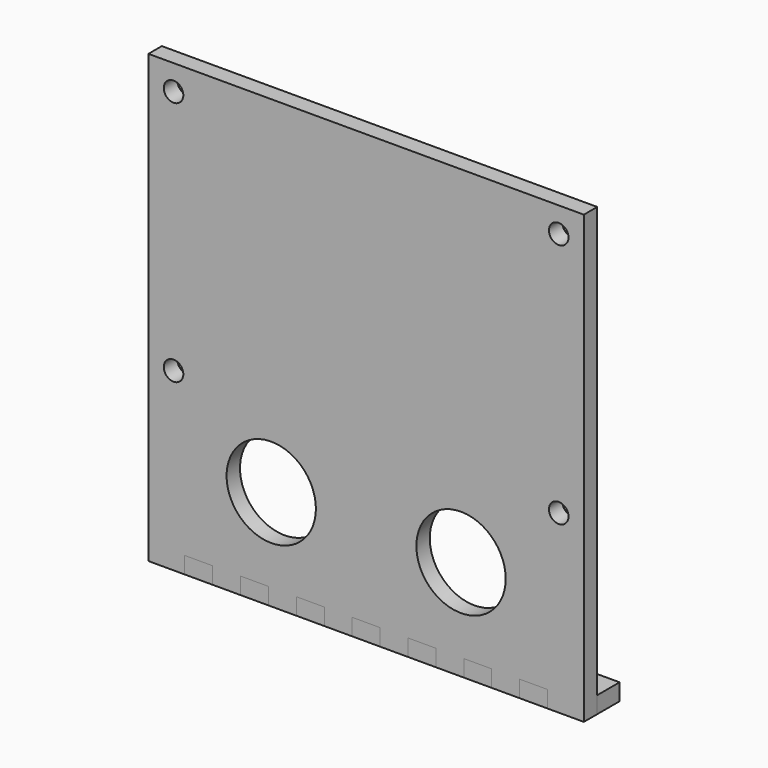
from build123d import *

# Parameters (mm, degrees)
F0_R     = 8
F0_R_2   = 1.75
F1_DEPTH = 3
F2_W     = 6.5
F2_H     = 3
F2_W_2   = 5
F3_DEPTH = 8


with BuildPart() as f1:
    # F0 (on Front) → F1 (new body)
    with BuildSketch(Plane.XZ):
        Polygon((0, 80), (0, 0), (6.5, 0), (6.5, 3), (11.5, 3), (11.5, 0), (16.5, 0), (16.5, 3), (21.5, 3), (21.5, 0), (26.5, 0), (26.5, 3), (31.5, 3), (31.5, 0), (36.5, 0), (36.5, 3), (38, 3), (38, 26), (56, 26), (78, 26), (78, 80), align=None)
        with Locations((22, 18)):
            Circle(F0_R, mode=Mode.SUBTRACT)
        with Locations((4.5, 31.5)):
            Circle(F0_R_2, mode=Mode.SUBTRACT)
        with Locations((73.5, 31.5)):
            Circle(F0_R_2, mode=Mode.SUBTRACT)
        with Locations((4.5, 75.5)):
            Circle(F0_R_2, mode=Mode.SUBTRACT)
        with Locations((73.5, 75.5)):
            Circle(F0_R_2, mode=Mode.SUBTRACT)
        Polygon((78, 0), (78, 26), (56, 26), (38, 26), (38, 3), (41.5, 3), (41.5, 0), (46.5, 0), (46.5, 3), (51.5, 3), (51.5, 0), (56.5, 0), (56.5, 3), (61.5, 3), (61.5, 0), (66.5, 0), (66.5, 3), (71.5, 3), (71.5, 0), align=None)
        with BuildLine():
            ThreePointArc((64, 18), (50.3431457505, 12.3431457505), (56, 26))
            ThreePointArc((56, 26), (61.6568542495, 23.6568542495), (64, 18))
        make_face(mode=Mode.SUBTRACT)
    extrude(amount=F1_DEPTH)


with BuildPart() as f3:
    # F2 (on face) → F3 (new body)
    with BuildSketch(Plane.XZ.offset(3)):
        with Locations((3.25, 1.5)):
            Rectangle(F2_W, F2_H)
        with Locations((9, 1.5)):
            Rectangle(F2_W_2, F2_H)
        with Locations((14, 1.5)):
            Rectangle(F2_W_2, F2_H)
        with Locations((19, 1.5)):
            Rectangle(F2_W_2, F2_H)
        with Locations((24, 1.5)):
            Rectangle(F2_W_2, F2_H)
        with Locations((29, 1.5)):
            Rectangle(F2_W_2, F2_H)
        with Locations((34, 1.5)):
            Rectangle(F2_W_2, F2_H)
        with Locations((39, 1.5)):
            Rectangle(F2_W_2, F2_H)
        with Locations((44, 1.5)):
            Rectangle(F2_W_2, F2_H)
        with Locations((49, 1.5)):
            Rectangle(F2_W_2, F2_H)
        with Locations((54, 1.5)):
            Rectangle(F2_W_2, F2_H)
        with Locations((59, 1.5)):
            Rectangle(F2_W_2, F2_H)
        with Locations((64, 1.5)):
            Rectangle(F2_W_2, F2_H)
        with Locations((69, 1.5)):
            Rectangle(F2_W_2, F2_H)
        with Locations((74.75, 1.5)):
            Rectangle(F2_W, F2_H)
    extrude(amount=-F3_DEPTH)

    # F4: cut F1
    add(f1.part, mode=Mode.SUBTRACT)


solid = Compound([f1.part, f3.part])
